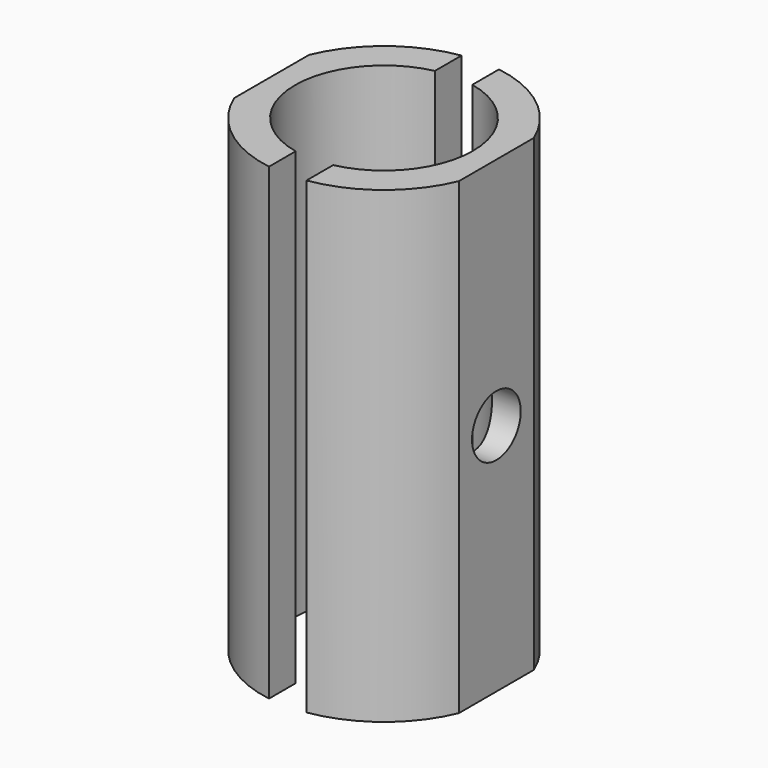
from build123d import *

# Parameters (mm, degrees)
F1_DEPTH = 50
F3_D     = 6.5
F3_DEPTH = 10
F3_TIP   = 1.9527970118


with BuildPart() as f1:
    # F0 (on Top) → F1 (new body)
    with BuildSketch(Plane.XY):
        with BuildLine():
            Line((12, -5), (12, 5))
            ThreePointArc((12, 5), (8.0241459703, 10.228053649), (2, 12.8452325787))
            Line((2, 12.8452325787), (2, 9.2870878105))
            ThreePointArc((2, 9.2870878105), (7.3908727495, 5.9686681932), (9.5, 0))
            ThreePointArc((9.5, 0), (7.3908727495, -5.9686681932), (2, -9.2870878105))
            Line((2, -9.2870878105), (2, -12.8452325787))
            ThreePointArc((2, -12.8452325787), (8.0241459703, -10.228053649), (12, -5))
        make_face()
        with BuildLine():
            Line((-2, 9.2870878105), (-2, 12.8452325787))
            ThreePointArc((-2, 12.8452325787), (-8.0241459703, 10.228053649), (-12, 5))
            Line((-12, 5), (-12, -5))
            ThreePointArc((-12, -5), (-8.0241459703, -10.228053649), (-2, -12.8452325787))
            Line((-2, -12.8452325787), (-2, -9.2870878105))
            ThreePointArc((-2, -9.2870878105), (-9.5, 0), (-2, 9.2870878105))
        make_face()
    extrude(amount=F1_DEPTH)

    # F3
    with Locations(Plane.YZ.offset(12)):
        with Locations((0, 25)):
            Hole(F3_D / 2, depth=F3_DEPTH)
            with Locations((0, 0, -(F3_DEPTH + F3_TIP / 2))):  # 118° drill point
                Cone(0, F3_D / 2, F3_TIP, mode=Mode.SUBTRACT)


solid = f1.part
